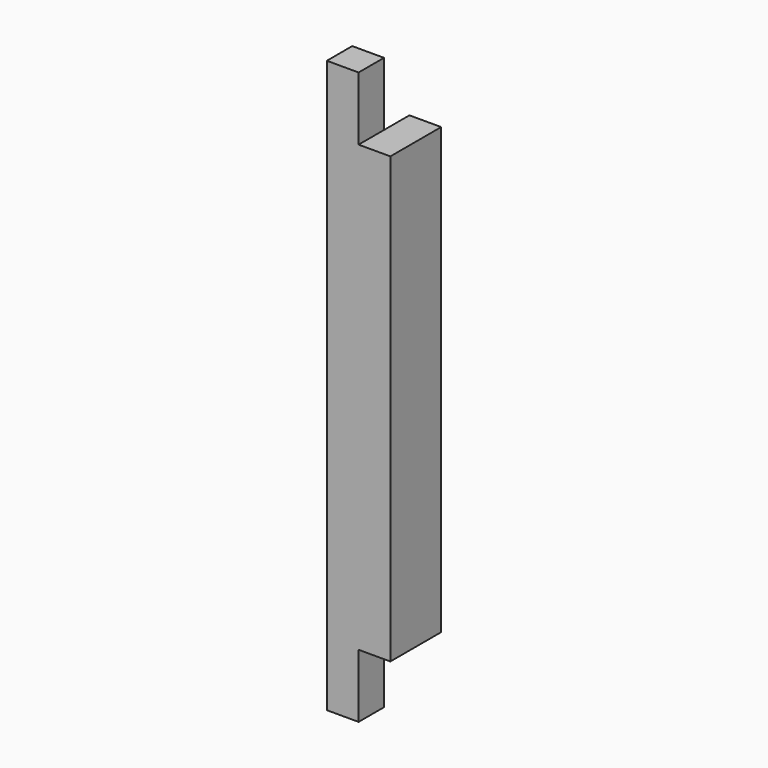
from build123d import *

# Parameters (mm, degrees)
F1_DEPTH = 457.2
F2_W     = 50.8
F2_H     = 50.8
F3_DEPTH = 25.4


with BuildPart() as f1:
    # F0 (on Top) → F1 (new body)
    with BuildSketch(Plane.XY):
        Polygon((-82.997608, -24.226959), (-82.997608, -49.626959), (-32.197608, -49.626959), (-32.197608, 1.173041), (-57.597608, 1.173041), (-57.597608, -24.226959), align=None)
    extrude(amount=F1_DEPTH)

    # F2 (on face) → F3 (cut)
    with BuildSketch(Plane.YZ.offset(-32.197608)):
        with Locations((-24.226959, 431.8)):
            Rectangle(F2_W, F2_H)
        with Locations((-24.226959, 25.4)):
            Rectangle(F2_W, F2_H)
    extrude(amount=-F3_DEPTH, mode=Mode.SUBTRACT)


solid = f1.part
